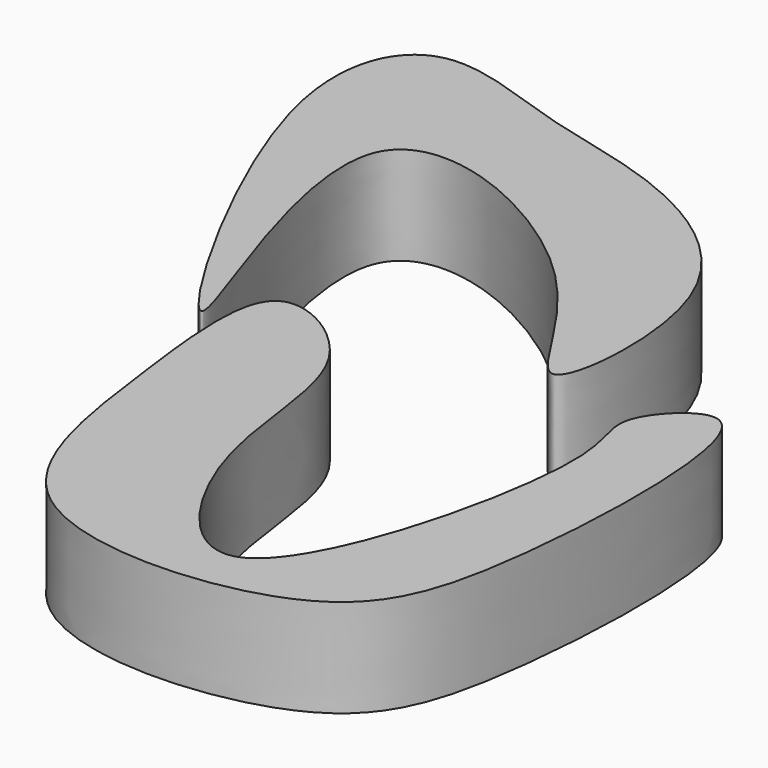
from build123d import *

# Parameters (mm, degrees)
F1_DEPTH = 25.4
F3_DEPTH = 25.4


with BuildPart() as f1:
    # F0 (on Top) → F1 (new body)
    with BuildSketch(Plane.XY):
        with BuildLine():
            add(Edge.make_bspline(
                [(38.1172262132, 57.1917109191), (47.8745248965, 53.1691168345), (46.6533274143, -23.6208506646), (29.962331485, -64.3611071357), (-56.8164761791, -68.5108934217), (-65.2398032672, -3.9533580612), (-72.7608467354, 53.751223153), (-30.9663305923, 29.5678819126), (-37.0505091007, -16.0557050441), (6.4243124012, -80.6502244049), (33.0920507484, 30.6320899136), (18.6975329127, 44.4140809185), (33.4054366523, 59.134217491), (38.1172262132, 57.1917109191)],
                knots=[0, 0, 0, 0, 0.1165251715, 0.2079694091, 0.3167455507, 0.4213639362, 0.5092131686, 0.5782923244, 0.6735956103, 0.7619542625, 0.8841960613, 0.9437301138, 1, 1, 1, 1], degree=3))
        make_face()
    extrude(amount=F1_DEPTH)


with BuildPart() as f3:
    # F2 (on Top) → F3 (new body)
    with BuildSketch(Plane.XY):
        with BuildLine():
            add(Edge.make_bspline(
                [(-73.2202902436, 29.3039828539), (-71.9344441063, 33.4912998607), (-119.7845764682, 137.4871840429), (-19.6660544376, 94.3460254941), (2.451527648, 29.9912738896), (8.082957459, 103.9806287445), (-36.1476136816, 132.2001266297), (-70.992565778, 137.1436762263), (-109.0921841116, 154.2892853884), (-127.8154772837, 114.5309220672), (-74.6288624281, 24.7170123816), (-73.2202902436, 29.3039828539)],
                knots=[0, 0, 0, 0, 0.1366657045, 0.2605991085, 0.3639819719, 0.4655458205, 0.575265682, 0.6697061701, 0.759179957, 0.8502904007, 1, 1, 1, 1], degree=3))
        make_face()
    extrude(amount=F3_DEPTH)


solid = Compound([f1.part, f3.part])
